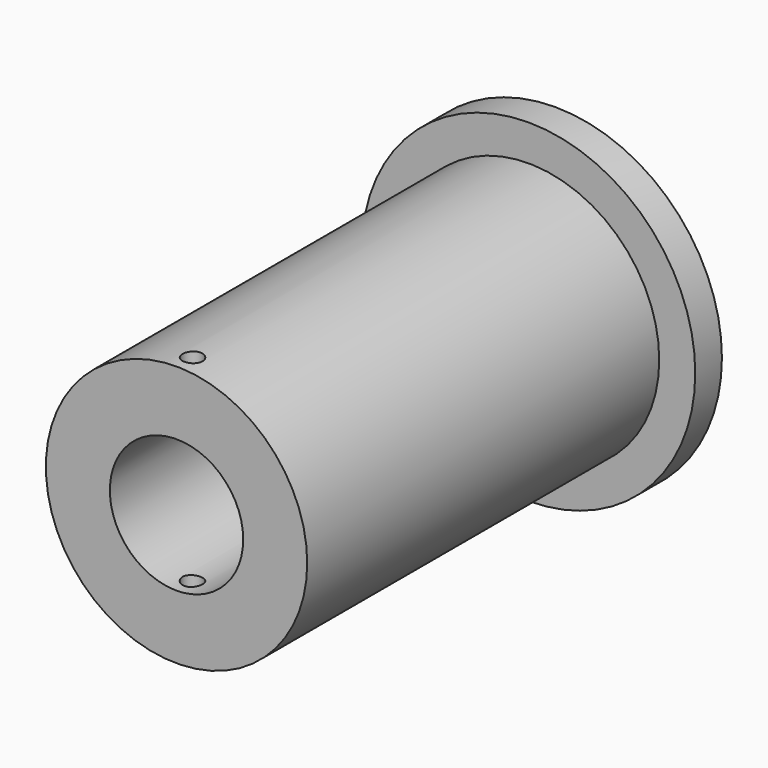
from build123d import *

# Parameters (mm, degrees)
F0_R     = 12.446
F0_R_2   = 6.35
F1_DEPTH = 41.91
F2_R     = 15.875
F2_R_2   = 6.35
F3_DEPTH = 3.175
F5_R     = 0.9525
F6_DEPTH = 41.276


with BuildPart() as f1:
    # F0 (on Front) → F1 (new body)
    with BuildSketch(Plane.XZ):
        Circle(F0_R)
        Circle(F0_R_2, mode=Mode.SUBTRACT)
    extrude(amount=F1_DEPTH)

    # F2 (on Front) → F3 (join)
    with BuildSketch(Plane.XZ):
        Circle(F2_R)
        Circle(F2_R_2, mode=Mode.SUBTRACT)
    extrude(amount=-F3_DEPTH)

    # F5 (on offset) → F6 (cut, through all)
    with BuildSketch(Plane.XY.offset(25.4)):
        with Locations((0, -40.005)):
            Circle(F5_R)
    extrude(amount=-F6_DEPTH, mode=Mode.SUBTRACT)


solid = f1.part
